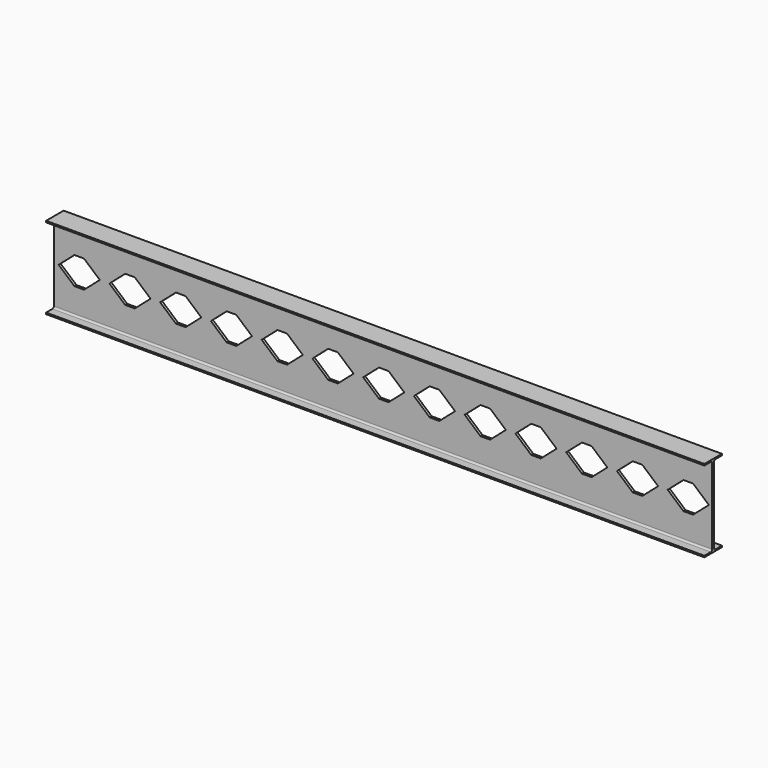
from build123d import *

# Parameters (mm, degrees)
F1_DEPTH = 3048
F3_DEPTH = 56.643


with BuildPart() as f1:
    # F0 (on Right) → F1 (new body)
    with BuildSketch(Plane.YZ):
        with BuildLine():
            Line((-5.842, 175.7299), (-5.842, 0))
            Line((-5.842, 0), (-5.842, -175.7299))
            ThreePointArc((-5.842, -175.7299), (-8.16684, -181.34256), (-13.7795, -183.6674))
            Line((-13.7795, -183.6674), (-50.8, -183.6674))
            Line((-50.8, -183.6674), (-50.8, -190.5))
            Line((-50.8, -190.5), (0, -190.5))
            Line((0, -190.5), (50.8, -190.5))
            Line((50.8, -190.5), (50.8, -183.6674))
            Line((50.8, -183.6674), (13.7795, -183.6674))
            ThreePointArc((13.7795, -183.6674), (8.16684, -181.34256), (5.842, -175.7299))
            Line((5.842, -175.7299), (5.842, 0))
            Line((5.842, 0), (5.842, 175.7299))
            ThreePointArc((5.842, 175.7299), (8.16684, 181.34256), (13.7795, 183.6674))
            Line((13.7795, 183.6674), (50.8, 183.6674))
            Line((50.8, 183.6674), (50.8, 190.5))
            Line((50.8, 190.5), (0, 190.5))
            Line((0, 190.5), (-50.8, 190.5))
            Line((-50.8, 190.5), (-50.8, 183.6674))
            Line((-50.8, 183.6674), (-13.7795, 183.6674))
            ThreePointArc((-13.7795, 183.6674), (-8.16684, 181.34256), (-5.842, 175.7299))
        make_face()
    extrude(amount=F1_DEPTH)

    # F2 (on face) → F3 (cut, through all)
    with BuildSketch(Plane.XZ.offset(5.842)):
        Polygon((95.273394, 63.5), (22.225, 0), (95.273394, -63.5), (139.723394, -63.5), (212.771788, 0), (139.723394, 63.5), align=None)
        Polygon((374.724194, 63.5), (330.274194, 63.5), (257.2258, 0), (330.274194, -63.5), (374.724194, -63.5), (447.772588, 0), align=None)
        Polygon((609.724994, 63.5), (565.274994, 63.5), (492.2266, 0), (565.274994, -63.5), (609.724994, -63.5), (682.773388, 0), align=None)
        Polygon((844.725794, 63.5), (800.275794, 63.5), (727.2274, 0), (800.275794, -63.5), (844.725794, -63.5), (917.774188, 0), align=None)
        Polygon((1079.726594, 63.5), (1035.276594, 63.5), (962.2282, 0), (1035.276594, -63.5), (1079.726594, -63.5), (1152.774988, 0), align=None)
        Polygon((1314.727394, 63.5), (1270.277394, 63.5), (1197.229, 0), (1270.277394, -63.5), (1314.727394, -63.5), (1387.775788, 0), align=None)
        Polygon((1549.728194, 63.5), (1505.278194, 63.5), (1432.2298, 0), (1505.278194, -63.5), (1549.728194, -63.5), (1622.776588, 0), align=None)
        Polygon((1784.728994, 63.5), (1740.278994, 63.5), (1667.2306, 0), (1740.278994, -63.5), (1784.728994, -63.5), (1857.777388, 0), align=None)
        Polygon((2019.729794, 63.5), (1975.279794, 63.5), (1902.2314, 0), (1975.279794, -63.5), (2019.729794, -63.5), (2092.778188, 0), align=None)
        Polygon((2254.730594, 63.5), (2210.280594, 63.5), (2137.2322, 0), (2210.280594, -63.5), (2254.730594, -63.5), (2327.778988, 0), align=None)
        Polygon((2489.731394, 63.5), (2445.281394, 63.5), (2372.233, 0), (2445.281394, -63.5), (2489.731394, -63.5), (2562.779788, 0), align=None)
        Polygon((2724.732194, 63.5), (2680.282194, 63.5), (2607.2338, 0), (2680.282194, -63.5), (2724.732194, -63.5), (2797.780588, 0), align=None)
        Polygon((2959.732994, 63.5), (2915.282994, 63.5), (2842.2346, 0), (2915.282994, -63.5), (2959.732994, -63.5), (3032.781388, 0), align=None)
    extrude(amount=-F3_DEPTH, mode=Mode.SUBTRACT)


solid = f1.part
